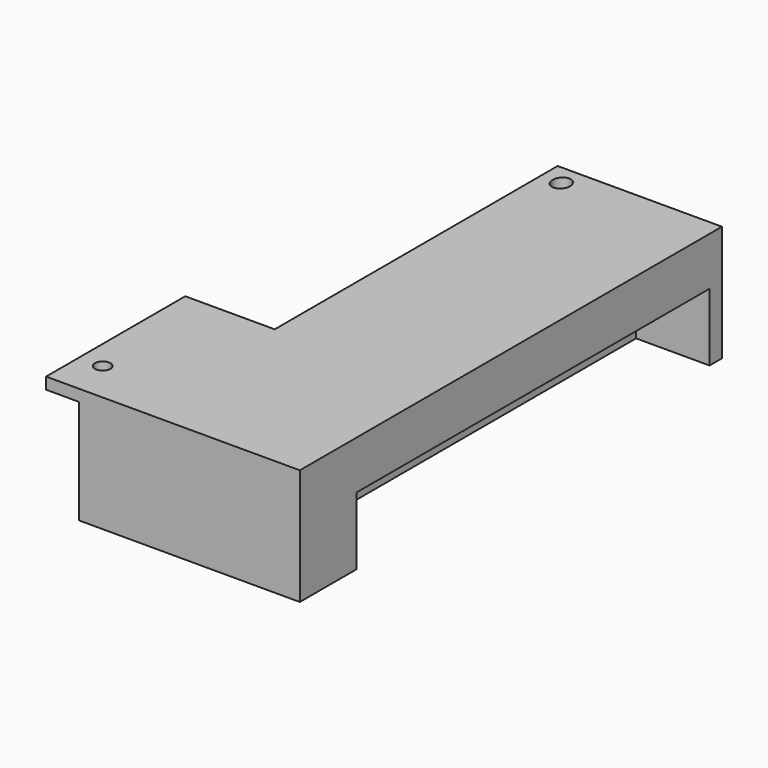
from build123d import *

# Parameters (mm, degrees)
F0_R     = 1.016
F1_DEPTH = 15.24
F2_W     = 4.318
F2_H     = 8.255
F2_R     = 1.016
F3_DEPTH = 13.716
F4_W     = 4.699
F4_H     = 5.08
F5_DEPTH = 13.716
F6_W     = 58.039
F6_H     = 8.89
F7_DEPTH = 9.652


with BuildPart() as f1:
    # F0 (on Top) → F1 (new body)
    with BuildSketch(Plane.XY):
        Polygon((0, 69.342), (-21.59, 69.342), (-21.59, 22.86), (-33.3502, 22.86), (-33.3502, 9.144), (0, 9.144), align=None)
        with BuildLine():
            add(Edge.make_bspline(
                [(-18.923, 67.9196), (-20.902734, 67.9196), (-19.912867, 65.9765), (-18.923, 64.0334), (-17.933133, 65.9765), (-16.943266, 67.9196), (-18.923, 67.9196)],
                knots=[0, 0, 0, 2.094395, 2.094395, 4.18879, 4.18879, 6.283185, 6.283185, 6.283185], degree=2, weights=[1, 0.5, 1, 0.5, 1, 0.5, 1]))
        make_face(mode=Mode.SUBTRACT)
        Polygon((0, 0), (0, 9.144), (-33.3502, 9.144), (-33.3502, 0), (-21.59, 0), align=None)
        with Locations((-30.2768, 5.461)):
            Circle(F0_R, mode=Mode.SUBTRACT)
    extrude(amount=-F1_DEPTH)

    # F2 (on face) → F3 (cut)
    with BuildSketch(Plane(origin=(0, 0, -15.24), x_dir=(1, 0, 0), z_dir=(0, 0, -1))):
        with Locations((-31.1912, -4.1275)):
            Rectangle(F2_W, F2_H)
        with Locations((-30.2768, -5.461)):
            Circle(F2_R, mode=Mode.SUBTRACT)
    extrude(amount=-F3_DEPTH, mode=Mode.SUBTRACT)

    # F4 (on face) → F5 (cut)
    with BuildSketch(Plane(origin=(0, 0, -15.24), x_dir=(1, 0, 0), z_dir=(0, 0, -1))):
        with Locations((-19.2405, -66.802)):
            Rectangle(F4_W, F4_H)
    extrude(amount=-F5_DEPTH, mode=Mode.SUBTRACT)

    # F6 (on face) → F7 (cut)
    with BuildSketch(Plane.YZ):
        with Locations((38.2905, -10.795)):
            Rectangle(F6_W, F6_H)
    extrude(amount=-F7_DEPTH, mode=Mode.SUBTRACT)


solid = f1.part
